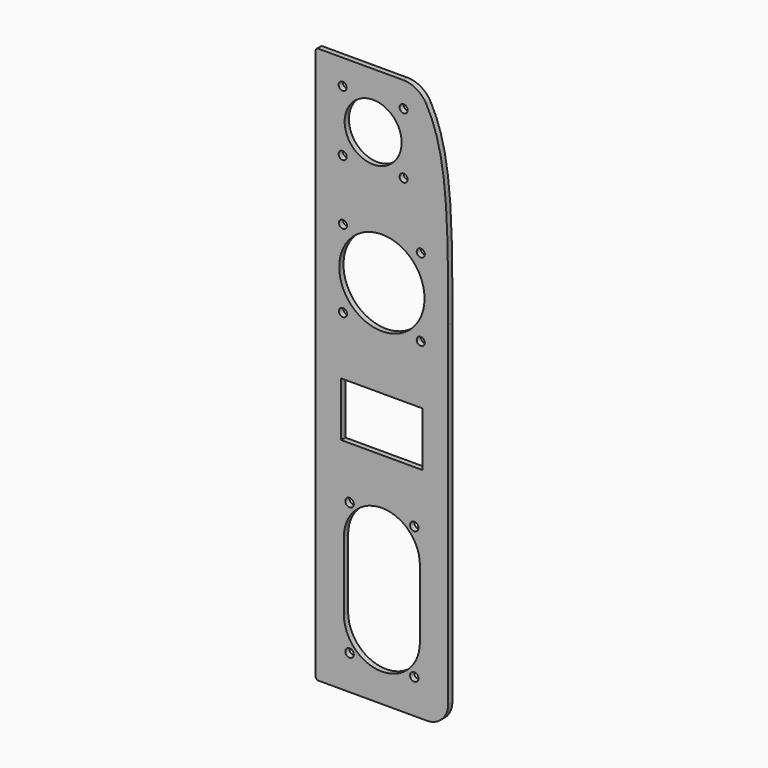
from build123d import *

# Parameters (mm, degrees)
F0_R     = 1.6
F0_W     = 30.7
F0_H     = 20.5
F0_R_2   = 1.524
F0_R_3   = 16.1
F0_R_4   = 10.75
F1_DEPTH = 2


with BuildPart() as f1:
    # F0 (on Front) → F1 (new body)
    with BuildSketch(Plane.XZ):
        with BuildLine():
            ThreePointArc((0, 1), (0.292893, 0.292893), (1, 0))
            Line((1, 0), (42, 0))
            ThreePointArc((42, 0), (47.656854, 2.343146), (50, 8))
            Line((50, 8), (50, 133.995056))
            add(Edge.make_bspline(
                [(41.786822, 204.882652), (50, 190.202921), (50, 167.68368), (50, 133.995056)],
                knots=[8.50185, 8.50185, 8.50185, 8.50185, 76.896032, 76.896032, 76.896032, 76.896032], degree=3))
            ThreePointArc((41.786822, 204.882652), (38.118203, 208.626312), (33.059869, 210))
            Line((33.059869, 210), (1, 210))
            ThreePointArc((1, 210), (0.292893, 209.707107), (0, 209))
            Line((0, 209), (0, 1))
        make_face()
        with Locations((12.8, 13)):
            Circle(F0_R, mode=Mode.SUBTRACT)
        with BuildLine():
            ThreePointArc((39.35, 25.15), (25, 10.8), (10.65, 25.15))
            Line((10.65, 25.15), (10.65, 50.85))
            ThreePointArc((10.65, 50.85), (25, 65.2), (39.35, 50.85))
            Line((39.35, 50.85), (39.35, 25.15))
        make_face(mode=Mode.SUBTRACT)
        with Locations((12.8, 63)):
            Circle(F0_R, mode=Mode.SUBTRACT)
        with Locations((25, 93)):
            Rectangle(F0_W, F0_H, mode=Mode.SUBTRACT)
        with Locations((37.2, 13)):
            Circle(F0_R, mode=Mode.SUBTRACT)
        with Locations((37.2, 63)):
            Circle(F0_R, mode=Mode.SUBTRACT)
        with Locations((10.319, 125.319)):
            Circle(F0_R_2, mode=Mode.SUBTRACT)
        with Locations((10.319, 154.681)):
            Circle(F0_R_2, mode=Mode.SUBTRACT)
        with Locations((25, 140)):
            Circle(F0_R_3, mode=Mode.SUBTRACT)
        with Locations((10.194, 177.494)):
            Circle(F0_R_2, mode=Mode.SUBTRACT)
        with Locations((10.194, 200.506)):
            Circle(F0_R_2, mode=Mode.SUBTRACT)
        with Locations((21.7, 189)):
            Circle(F0_R_4, mode=Mode.SUBTRACT)
        with Locations((39.681, 125.319)):
            Circle(F0_R_2, mode=Mode.SUBTRACT)
        with Locations((39.681, 154.681)):
            Circle(F0_R_2, mode=Mode.SUBTRACT)
        with Locations((33.206, 177.494)):
            Circle(F0_R_2, mode=Mode.SUBTRACT)
        with Locations((33.206, 200.506)):
            Circle(F0_R_2, mode=Mode.SUBTRACT)
    extrude(amount=F1_DEPTH)


solid = f1.part
